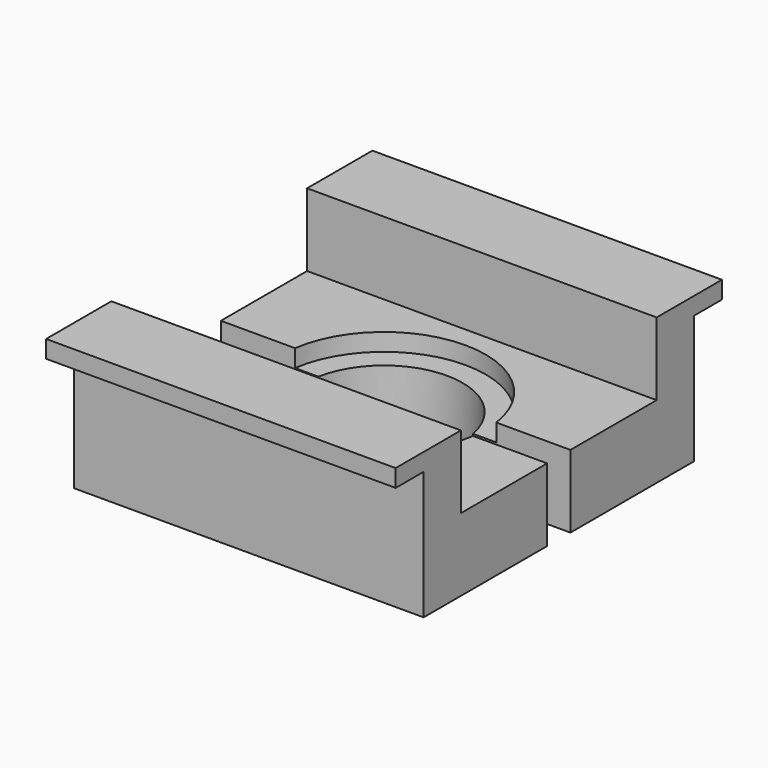
from build123d import *

# Parameters (mm, degrees)
F0_W      = 60
F0_H      = 70
F0_R      = 13.5
F1_DEPTH  = 25
F2_W      = 6
F2_H      = 22
F3_DEPTH  = 60.001
F4_DEPTH  = 60.001
F5_W      = 42
F5_H      = 12.5
F6_DEPTH  = 60.001
F7_R      = 17.45
F8_DEPTH  = 3
F9_W      = 5
F9_H      = 12.5
F10_DEPTH = 60.001


with BuildPart() as f1:
    # F0 (on Top) → F1 (new body)
    with BuildSketch(Plane.XY):
        Rectangle(F0_W, F0_H)
        Circle(F0_R, mode=Mode.SUBTRACT)
    extrude(amount=F1_DEPTH)

    # F2 (on face) → F3 (cut, through all)
    with BuildSketch(Plane.YZ.offset(30)):
        with Locations((-32, 11)):
            Rectangle(F2_W, F2_H)
    extrude(amount=-F3_DEPTH, mode=Mode.SUBTRACT)

    # F2 (on face) → F4 (cut, through all)
    with BuildSketch(Plane.YZ.offset(30)):
        with Locations((-32, 11)):
            Rectangle(F2_W, F2_H)
        with Locations((32, 11)):
            Rectangle(F2_W, F2_H)
    extrude(amount=-F4_DEPTH, mode=Mode.SUBTRACT)

    # F5 (on face) → F6 (cut, through all)
    with BuildSketch(Plane.YZ.offset(30)):
        with Locations((0, 18.75)):
            Rectangle(F5_W, F5_H)
    extrude(amount=-F6_DEPTH, mode=Mode.SUBTRACT)

    # F7 (on face) → F8 (cut)
    with BuildSketch(Plane.XY.offset(12.5)):
        Circle(F7_R)
    extrude(amount=-F8_DEPTH, mode=Mode.SUBTRACT)

    # F9 (on face) → F10 (cut, through all)
    with BuildSketch(Plane.YZ.offset(30)):
        with Locations((0, 6.25)):
            Rectangle(F9_W, F9_H)
    extrude(amount=-F10_DEPTH, mode=Mode.SUBTRACT)


solid = f1.part
